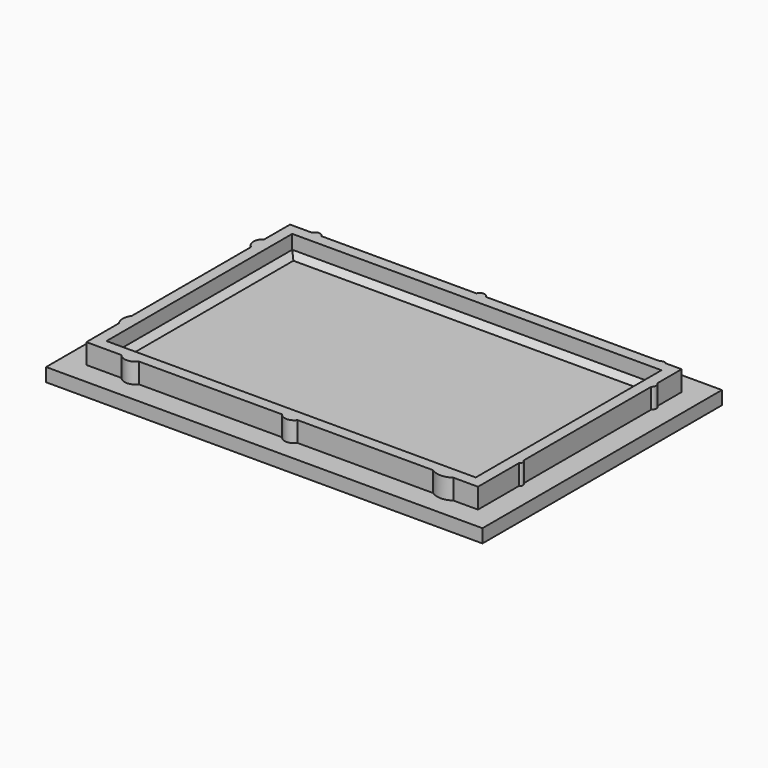
from build123d import *

# Parameters (mm, degrees)
F0_W     = 78
F0_H     = 53.5
F1_DEPTH = 2.4
F2_DEPTH = 6
F3_W     = 66
F3_H     = 41.5
F4_DEPTH = 3.5
F5_SIZE  = 1


with BuildPart() as f1:
    # F0 (on Top) → F1 (new body)
    with BuildSketch(Plane.XY):
        with Locations((24.061151, -25.793475)):
            Rectangle(F0_W, F0_H)
        with BuildLine():
            Line((-10.938849, -8.77954), (-10.938849, -3.043475))
            Line((-10.938849, -3.043475), (-6.991661, -3.043475))
            ThreePointArc((-6.991661, -3.043475), (-6.173105, -2.505917), (-5.354548, -3.043475))
            Line((-5.354548, -3.043475), (22.380689, -3.043475))
            ThreePointArc((22.380689, -3.043475), (23.22092, -2.450647), (24.061151, -3.043475))
            Line((24.061151, -3.043475), (55.158719, -3.043475))
            ThreePointArc((55.158719, -3.043475), (55.675749, -2.828865), (56.192778, -3.043475))
            Line((56.192778, -3.043475), (59.061151, -3.043475))
            Line((59.061151, -3.043475), (59.061151, -8.429402))
            ThreePointArc((59.061151, -8.429402), (59.415671, -9.148699), (59.061151, -9.867996))
            Line((59.061151, -9.867996), (59.061151, -38.373694))
            ThreePointArc((59.061151, -38.373694), (59.364159, -38.895946), (59.061151, -39.418198))
            Line((59.061151, -39.418198), (59.061151, -48.543475))
            Line((59.061151, -48.543475), (54.673515, -48.543475))
            ThreePointArc((54.673515, -48.543475), (52.858135, -49.124567), (51.042754, -48.543475))
            Line((51.042754, -48.543475), (26.816798, -48.543475))
            ThreePointArc((26.816798, -48.543475), (25.438975, -49.262858), (24.061151, -48.543475))
            Line((24.061151, -48.543475), (-1.533683, -48.543475))
            ThreePointArc((-1.533683, -48.543475), (-3.096999, -49.304078), (-4.660315, -48.543475))
            Line((-4.660315, -48.543475), (-10.938849, -48.543475))
            Line((-10.938849, -48.543475), (-10.938849, -41.287743))
            ThreePointArc((-10.938849, -41.287743), (-11.387766, -39.830718), (-10.938849, -38.373694))
            Line((-10.938849, -38.373694), (-10.938849, -11.72171))
            ThreePointArc((-10.938849, -11.72171), (-11.712319, -10.250625), (-10.938849, -8.77954))
        make_face(mode=Mode.SUBTRACT)
    extrude(amount=F1_DEPTH)

    # F0 (on Top) → F2 (join)
    with BuildSketch(Plane.XY):
        with BuildLine():
            Line((-6.991661, -3.043475), (-10.938849, -3.043475))
            Line((-10.938849, -3.043475), (-10.938849, -8.77954))
            ThreePointArc((-10.938849, -8.77954), (-11.712319, -10.250625), (-10.938849, -11.72171))
            Line((-10.938849, -11.72171), (-10.938849, -38.373694))
            ThreePointArc((-10.938849, -38.373694), (-11.387766, -39.830718), (-10.938849, -41.287743))
            Line((-10.938849, -41.287743), (-10.938849, -48.543475))
            Line((-10.938849, -48.543475), (-4.660315, -48.543475))
            ThreePointArc((-4.660315, -48.543475), (-3.096999, -49.304078), (-1.533683, -48.543475))
            Line((-1.533683, -48.543475), (24.061151, -48.543475))
            ThreePointArc((24.061151, -48.543475), (25.438975, -49.262858), (26.816798, -48.543475))
            Line((26.816798, -48.543475), (51.042754, -48.543475))
            ThreePointArc((51.042754, -48.543475), (52.858135, -49.124567), (54.673515, -48.543475))
            Line((54.673515, -48.543475), (59.061151, -48.543475))
            Line((59.061151, -48.543475), (59.061151, -39.418198))
            ThreePointArc((59.061151, -39.418198), (59.364159, -38.895946), (59.061151, -38.373694))
            Line((59.061151, -38.373694), (59.061151, -9.867996))
            ThreePointArc((59.061151, -9.867996), (59.415671, -9.148699), (59.061151, -8.429402))
            Line((59.061151, -8.429402), (59.061151, -3.043475))
            Line((59.061151, -3.043475), (56.192778, -3.043475))
            ThreePointArc((56.192778, -3.043475), (55.675749, -2.828865), (55.158719, -3.043475))
            Line((55.158719, -3.043475), (24.061151, -3.043475))
            ThreePointArc((24.061151, -3.043475), (23.22092, -2.450647), (22.380689, -3.043475))
            Line((22.380689, -3.043475), (-5.354548, -3.043475))
            ThreePointArc((-5.354548, -3.043475), (-6.173105, -2.505917), (-6.991661, -3.043475))
        make_face()
    extrude(amount=F2_DEPTH)

    # F3 (on face) → F4 (cut)
    with BuildSketch(Plane.XY.offset(6)):
        with Locations((24.061151, -25.793475)):
            Rectangle(F3_W, F3_H)
    extrude(amount=-F4_DEPTH, mode=Mode.SUBTRACT)

    # F5
    f5_edges = [f1.edges().sort_by_distance(p)[0] for p in [
        (-8.938849, -25.793475, 2.5),
        (24.061151, -5.043475, 2.5),
        (57.061151, -25.793475, 2.5),
        (24.061151, -46.543475, 2.5),
    ]]
    chamfer(f5_edges, length=F5_SIZE)


solid = f1.part
